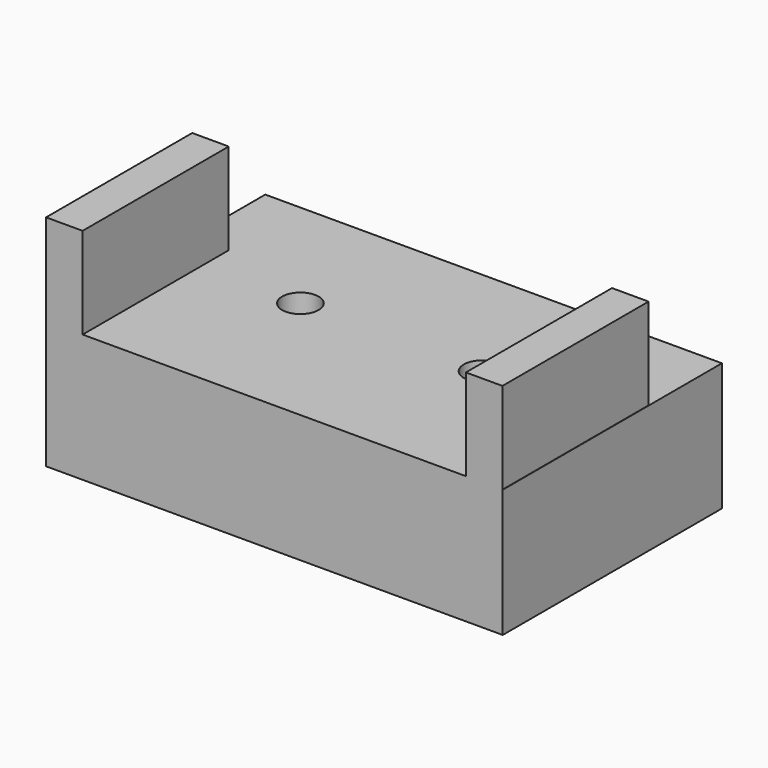
from build123d import *

# Parameters (mm, degrees)
F0_W     = 25
F0_H     = 15
F1_DEPTH = 7
F3_W     = 2
F3_H     = 10
F4_DEPTH = 5
F5_W     = 2
F5_H     = 10
F6_DEPTH = 5
F9_D     = 2


with BuildPart() as f1:
    # F0 (on Top) → F1 (new body)
    with BuildSketch(Plane.XY):
        with Locations((12.5, 7.5)):
            Rectangle(F0_W, F0_H)
    extrude(amount=F1_DEPTH)

    # F3 (on face) → F4 (join)
    with BuildSketch(Plane.XY.offset(7)):
        with Locations((1, 5)):
            Rectangle(F3_W, F3_H)
    extrude(amount=F4_DEPTH)

    # F5 (on face) → F6 (join)
    with BuildSketch(Plane.XY.offset(7)):
        with Locations((23.98319, 5)):
            Rectangle(F5_W, F5_H)
    extrude(amount=F6_DEPTH)

    # F9 (through all)
    with Locations(Plane.XY.offset(7)):
        with Locations((7.460146, 8.077994), (17.4512, 8.020776)):
            Hole(F9_D / 2)


solid = f1.part
